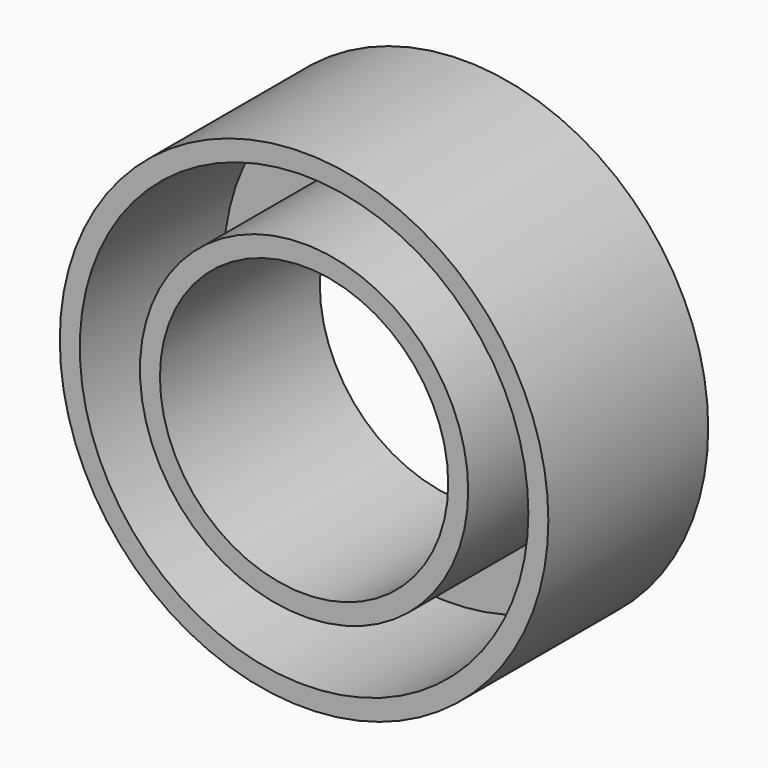
from build123d import *

# Parameters (mm, degrees)
F0_R     = 31.050501
F0_R_2   = 18.320769
F1_DEPTH = 25.4
F2_T     = -2.54


with BuildPart() as f1:
    # F0 (on Front) → F1 (new body)
    with BuildSketch(Plane.XZ):
        Circle(F0_R)
        Circle(F0_R_2, mode=Mode.SUBTRACT)
    extrude(amount=F1_DEPTH)

    # F2
    f2_openings = [f1.faces().sort_by_distance(p)[0] for p in [
        (-30.17226, -25.4, 0),
    ]]
    offset(amount=F2_T, openings=f2_openings)


solid = f1.part
